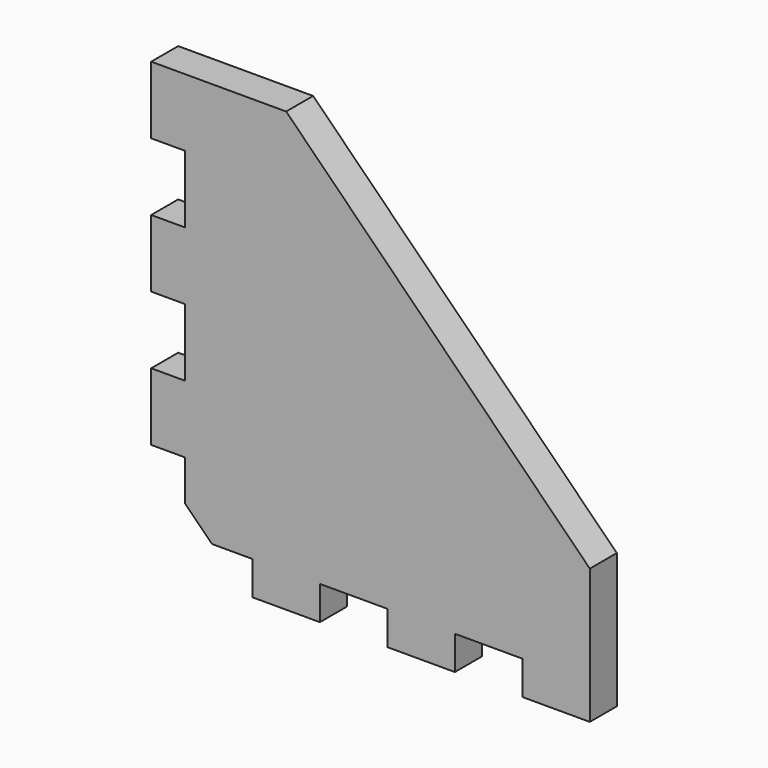
from build123d import *

# Parameters (mm, degrees)
F1_DEPTH = 2.5
F2_W     = 5
F2_H     = 10
F2_W_2   = 10
F2_H_2   = 5
F3_DEPTH = 5
F4_SIZE  = 4


with BuildPart() as f1:
    # F0 (on Front) → F1 (new body, symmetric)
    with BuildSketch(Plane.XZ):
        Polygon((-30, -30), (30, -30), (30, -15), (-15, 30), (-30, 30), align=None)
    extrude(amount=F1_DEPTH, both=True)

    # F2 (on face) → F3 (join, through all)
    with BuildSketch(Plane.XZ.offset(2.5)):
        with Locations((-32.5, 25)):
            Rectangle(F2_W, F2_H)
        with Locations((-32.5, 5)):
            Rectangle(F2_W, F2_H)
        with Locations((-32.5, -15)):
            Rectangle(F2_W, F2_H)
        with Locations((25, -32.5)):
            Rectangle(F2_W_2, F2_H_2)
        with Locations((5, -32.5)):
            Rectangle(F2_W_2, F2_H_2)
        with Locations((-15, -32.5)):
            Rectangle(F2_W_2, F2_H_2)
    extrude(amount=-F3_DEPTH)

    # F4
    f4_edges = [f1.edges().sort_by_distance(p)[0] for p in [
        (-30, 0, -30),
    ]]
    chamfer(f4_edges, length=F4_SIZE)


solid = f1.part
